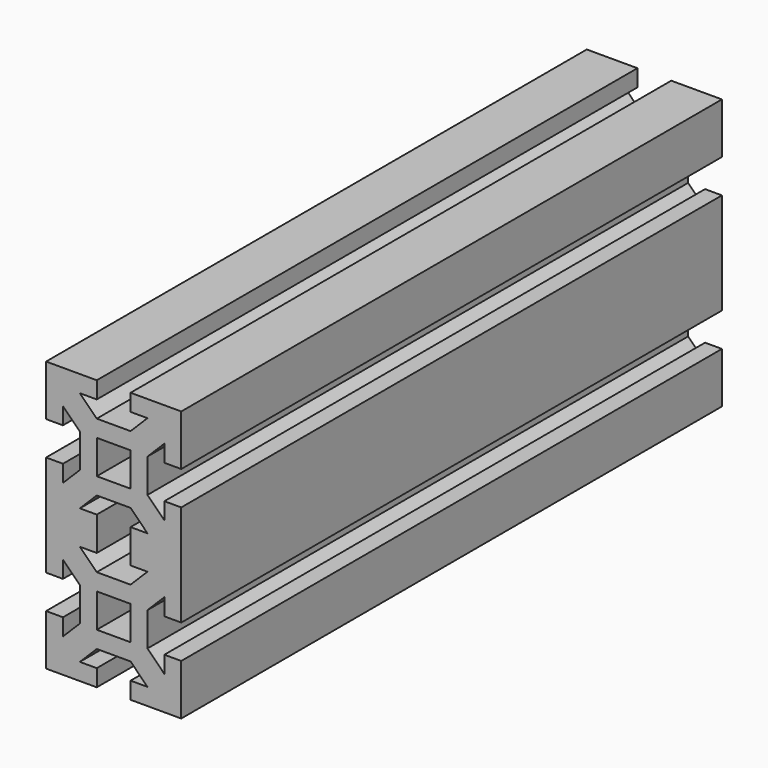
from build123d import *

# Parameters (mm, degrees)
F1_DEPTH = 200


with BuildPart() as f1:
    # F0 (on Front) → F1 (new body)
    with BuildSketch(Plane.XZ):
        Polygon((5, -20), (20, -20), (20, -5), (15, -5), (15, -10), (10, -5), (10, 5), (15, 10), (15, 5), (20, 5), (20, 20), (20, 35), (15, 35), (15, 30), (10, 35), (10, 45), (15, 50), (15, 45), (20, 45), (20, 60), (5, 60), (5, 55), (10, 55), (5, 50), (-5, 50), (-10, 55), (-5, 55), (-5, 60), (-20, 60), (-20, 45), (-15, 45), (-15, 50), (-10, 45), (-10, 35), (-15, 30), (-15, 35), (-20, 35), (-20, 20), (-20, 5), (-15, 5), (-15, 10), (-10, 5), (-10, -5), (-15, -10), (-15, -5), (-20, -5), (-20, -20), (-5, -20), (-5, -15), (-10, -15), (-5, -10), (5, -10), (10, -15), (5, -15), align=None)
        Polygon((-5, 0), (-5, 5), (0, 5), (5, 5), (5, 0), (5, -5), (0, -5), (-5, -5), align=None, mode=Mode.SUBTRACT)
        Polygon((-5, 15), (-5, 20), (-5, 25), (-10, 25), (-5, 30), (5, 30), (10, 25), (5, 25), (5, 20), (5, 15), (10, 15), (5, 10), (-5, 10), (-10, 15), align=None, mode=Mode.SUBTRACT)
        Polygon((-5, 40), (-5, 45), (0, 45), (5, 45), (5, 40), (5, 35), (0, 35), (-5, 35), align=None, mode=Mode.SUBTRACT)
    extrude(amount=F1_DEPTH)


solid = f1.part
